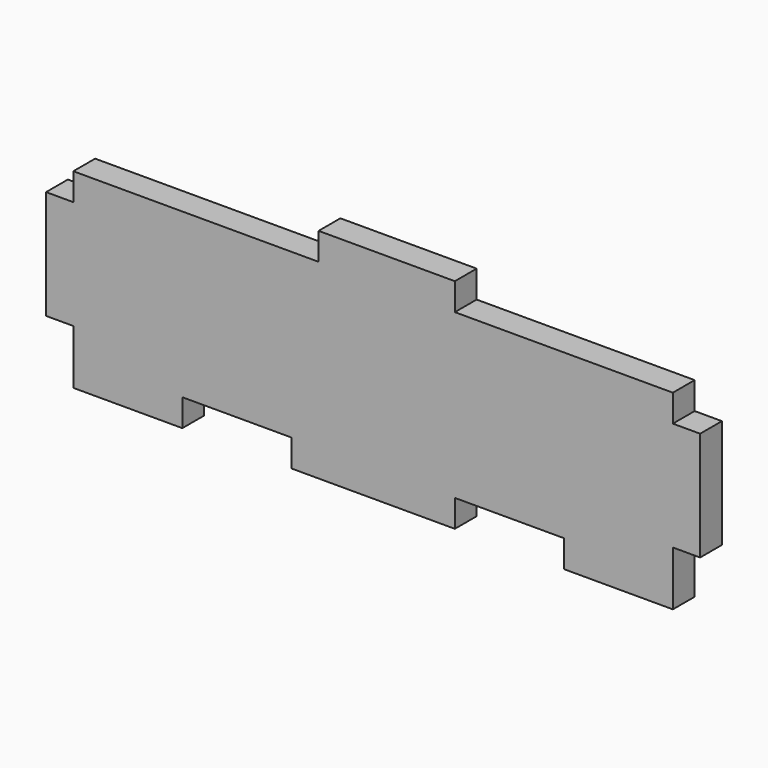
from build123d import *

# Parameters (mm, degrees)
F1_DEPTH = 6.35


with BuildPart() as f1:
    # F0 (on Front) → F1 (new body)
    with BuildSketch(Plane.XZ):
        Polygon((-69.85, 12.7), (-76.2, 12.7), (-76.2, 6.35), (-76.2, 0), (-76.2, -6.35), (-76.2, -12.7), (-69.85, -12.7), (-69.85, -19.05), (-69.85, -25.4), (-63.5, -25.4), (-57.15, -25.4), (-50.8, -25.4), (-44.45, -25.4), (-44.45, -19.05), (-38.1, -19.05), (-31.75, -19.05), (-25.4, -19.05), (-19.05, -19.05), (-19.05, -25.4), (-12.7, -25.4), (-6.35, -25.4), (0, -25.4), (6.35, -25.4), (12.7, -25.4), (19.05, -25.4), (19.05, -19.05), (25.4, -19.05), (31.75, -19.05), (38.1, -19.05), (44.45, -19.05), (44.45, -25.4), (50.8, -25.4), (57.15, -25.4), (63.5, -25.4), (69.85, -25.4), (69.85, -19.05), (69.85, -12.7), (76.2, -12.7), (76.2, -6.35), (76.2, 0), (76.2, 6.35), (76.2, 12.7), (69.85, 12.7), (69.85, 19.05), (63.5, 19.05), (57.15, 19.05), (50.8, 19.05), (44.45, 19.05), (38.1, 19.05), (31.75, 19.05), (25.4, 19.05), (19.05, 19.05), (19.05, 25.4), (12.7, 25.4), (6.35, 25.4), (0, 25.4), (-6.35, 25.4), (-12.7, 25.4), (-12.7, 19.05), (-19.05, 19.05), (-25.4, 19.05), (-31.75, 19.05), (-38.1, 19.05), (-44.45, 19.05), (-50.8, 19.05), (-57.15, 19.05), (-69.85, 19.05), align=None)
    extrude(amount=F1_DEPTH)


solid = f1.part
